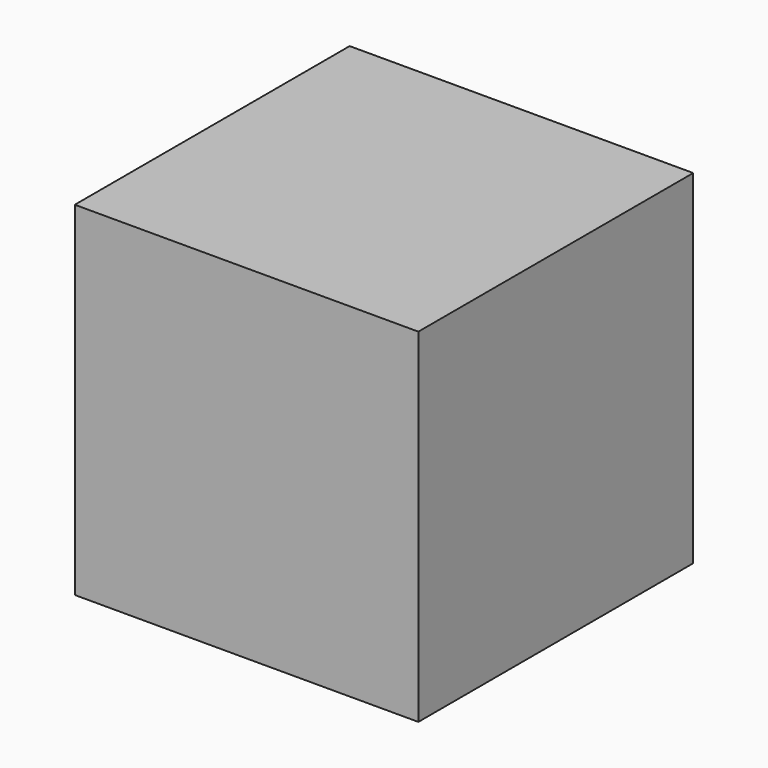
from build123d import *

# Parameters (mm, degrees)
F0_W          = 101.6
F0_H          = 101.6
F1_DEPTH      = 50.8
F1_DEPTH_BACK = 50.8
F2_R          = 11.9888
F3_DEPTH      = 12.7


with BuildPart() as f1:
    # F0 (on Top) → F1 (new body, two sides)
    with BuildSketch(Plane.XY) as f1_sk:
        Rectangle(F0_W, F0_H)
    extrude(amount=F1_DEPTH)
    extrude(f1_sk.sketch, amount=-F1_DEPTH_BACK)

    # F2 (on face) → F3 (cut)
    with BuildSketch(Plane(origin=(-50.8, 0, 0), x_dir=(0, -1, 0), z_dir=(-1, 0, 0))):
        Circle(F2_R)
    extrude(amount=-F3_DEPTH, mode=Mode.SUBTRACT)


solid = f1.part
